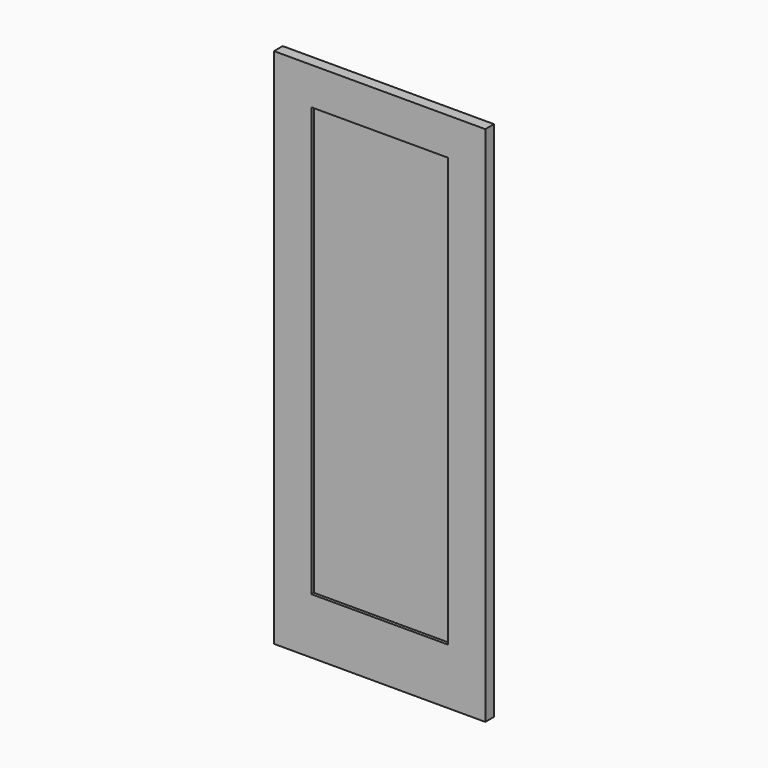
from build123d import *

# Parameters (mm, degrees)
F0_W     = 863.6
F0_H     = 2133.6
F0_W_2   = 558.8
F0_H_2   = 1752.6
F1_DEPTH = 22.225
F2_DEPTH = 9.525


with BuildPart() as f1:
    # F0 (on Front) → F1 (new body, symmetric)
    with BuildSketch(Plane.XZ):
        with Locations((527.824291, 889.583292)):
            Rectangle(F0_W, F0_H)
        with Locations((527.824291, 927.683292)):
            Rectangle(F0_W_2, F0_H_2, mode=Mode.SUBTRACT)
    extrude(amount=F1_DEPTH, both=True)


with BuildPart() as f2:
    # F0 (on Front) → F2 (new body, symmetric)
    with BuildSketch(Plane.XZ):
        with Locations((527.824291, 927.683292)):
            Rectangle(F0_W_2, F0_H_2)
    extrude(amount=F2_DEPTH, both=True)


solid = Compound([f1.part, f2.part])
